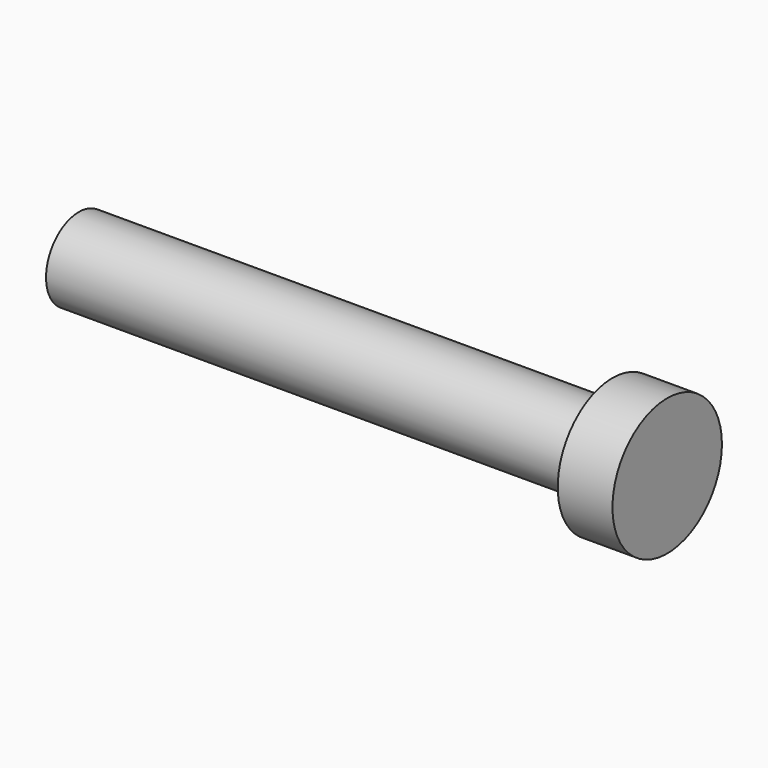
from build123d import *

# Parameters (mm, degrees)
F0_R     = 3
F1_DEPTH = 39
F0_R_2   = 5
F2_DEPTH = 4


with BuildPart() as f1:
    # F0 (on Right) → F1 (new body)
    with BuildSketch(Plane.YZ):
        Circle(F0_R)
    extrude(amount=-F1_DEPTH)

    # F0 (on Right) → F2 (join)
    with BuildSketch(Plane.YZ):
        Circle(F0_R_2)
        Circle(F0_R, mode=Mode.SUBTRACT)
        Circle(F0_R)
    extrude(amount=F2_DEPTH)


solid = f1.part
